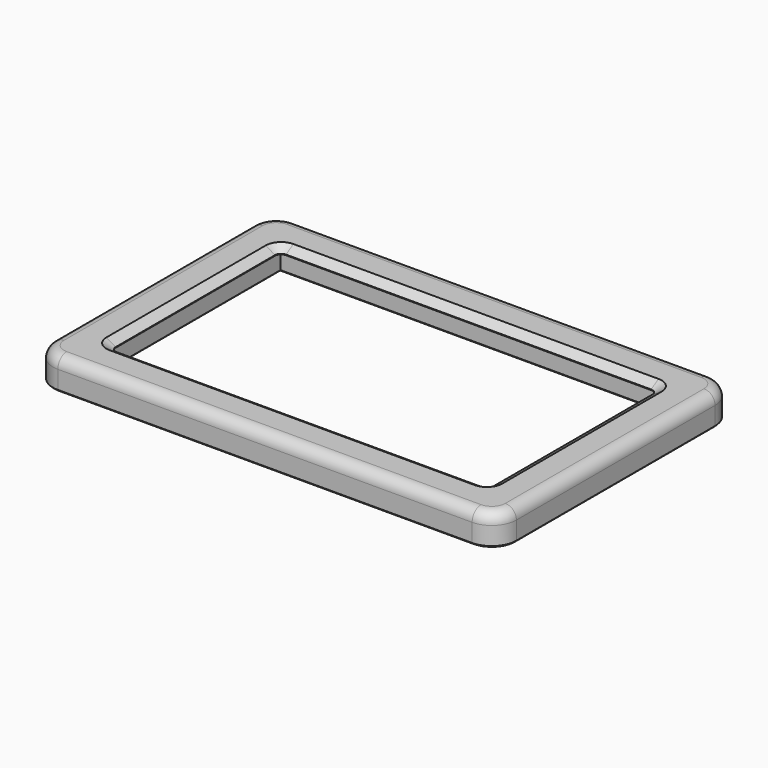
from build123d import *

# Parameters (mm, degrees)
F1_DEPTH = 12.7
F2_W     = 166.37
F2_H     = 101.854
F3_DEPTH = 10.16
F4_SIZE2 = 3.81
F4_SIZE  = 2.286
F5_R     = 4.572
F6_R     = 1.4605
F7_DEPTH = 10.16
F8_SIZE  = 0.635


with BuildPart() as f1:
    # F0 (on Top) → F1 (new body)
    with BuildSketch(Plane.XY):
        with BuildLine():
            Line((85.598, 61.468), (-85.598, 61.468))
            ThreePointArc((-85.598, 61.468), (-92.7822048969, 58.4922048969), (-95.758, 51.308))
            Line((-95.758, 51.308), (-95.758, -51.308))
            ThreePointArc((-95.758, -51.308), (-92.7822048969, -58.4922048969), (-85.598, -61.468))
            Line((-85.598, -61.468), (85.598, -61.468))
            ThreePointArc((85.598, -61.468), (92.7822048969, -58.4922048969), (95.758, -51.308))
            Line((95.758, -51.308), (95.758, 51.308))
            ThreePointArc((95.758, 51.308), (92.7822048969, 58.4922048969), (85.598, 61.468))
        make_face()
        with BuildLine():
            ThreePointArc((-77.978, 41.148), (-77.2340512242, 42.9440512242), (-75.438, 43.688))
            Line((-75.438, 43.688), (75.438, 43.688))
            ThreePointArc((75.438, 43.688), (77.2340512242, 42.9440512242), (77.978, 41.148))
            Line((77.978, 41.148), (77.978, -41.148))
            ThreePointArc((77.978, -41.148), (77.2340512242, -42.9440512242), (75.438, -43.688))
            Line((75.438, -43.688), (-75.438, -43.688))
            ThreePointArc((-75.438, -43.688), (-77.2340512242, -42.9440512242), (-77.978, -41.148))
            Line((-77.978, -41.148), (-77.978, 41.148))
        make_face(mode=Mode.SUBTRACT)
    extrude(amount=F1_DEPTH)

    # F2 (on face) → F3 (cut)
    with BuildSketch(Plane(origin=(0, 0, 0), x_dir=(1, 0, 0), z_dir=(0, 0, -1))):
        with Locations((1.397, 2.159)):
            Rectangle(F2_W, F2_H)
    extrude(amount=-F3_DEPTH, mode=Mode.SUBTRACT)

    # F4
    f4_edges = [f1.edges().sort_by_distance(p)[0] for p in [
        (0, -43.688, 12.7),
    ]]
    f4_side = f1.faces().sort_by_distance((0, -43.688, 11.43))[0]
    chamfer(f4_edges, length=F4_SIZE, length2=F4_SIZE2, reference=f4_side)

    # F5
    f5_edges = [f1.edges().sort_by_distance(p)[0] for p in [
        (0, -61.468, 12.7),
    ]]
    fillet(f5_edges, radius=F5_R)

    # F6 (on face) → F7 (cut)
    with BuildSketch(Plane(origin=(0, 0, 0), x_dir=(1, 0, 0), z_dir=(0, 0, -1))):
        with Locations((-63.5, 56.134)):
            Circle(F6_R)
        with Locations((63.5, 56.134)):
            Circle(F6_R)
        with Locations((-63.5, -51.816)):
            Circle(F6_R)
        with Locations((63.5, -51.816)):
            Circle(F6_R)
        with Locations((-90.424, 47.625)):
            Circle(F6_R)
        with Locations((-90.424, -47.625)):
            Circle(F6_R)
        with Locations((90.424, -47.625)):
            Circle(F6_R)
        with Locations((90.424, 47.625)):
            Circle(F6_R)
        with Locations((-90.424, 0)):
            Circle(F6_R)
        with Locations((90.424, 0)):
            Circle(F6_R)
        with Locations((-33.02, 56.134)):
            Circle(F6_R)
        with Locations((33.02, 56.134)):
            Circle(F6_R)
        with Locations((-33.02, -56.134)):
            Circle(F6_R)
        with Locations((33.02, -56.134)):
            Circle(F6_R)
    extrude(amount=-F7_DEPTH, mode=Mode.SUBTRACT)

    # F8
    f8_edges = [f1.edges().sort_by_distance(p)[0] for p in [
        (1.397, -53.086, 0),
        (0, -61.468, 0),
        (-81.788, -2.159, 0),
        (1.397, 48.768, 0),
        (84.582, -2.159, 0),
    ]]
    chamfer(f8_edges, length=F8_SIZE)


solid = f1.part
